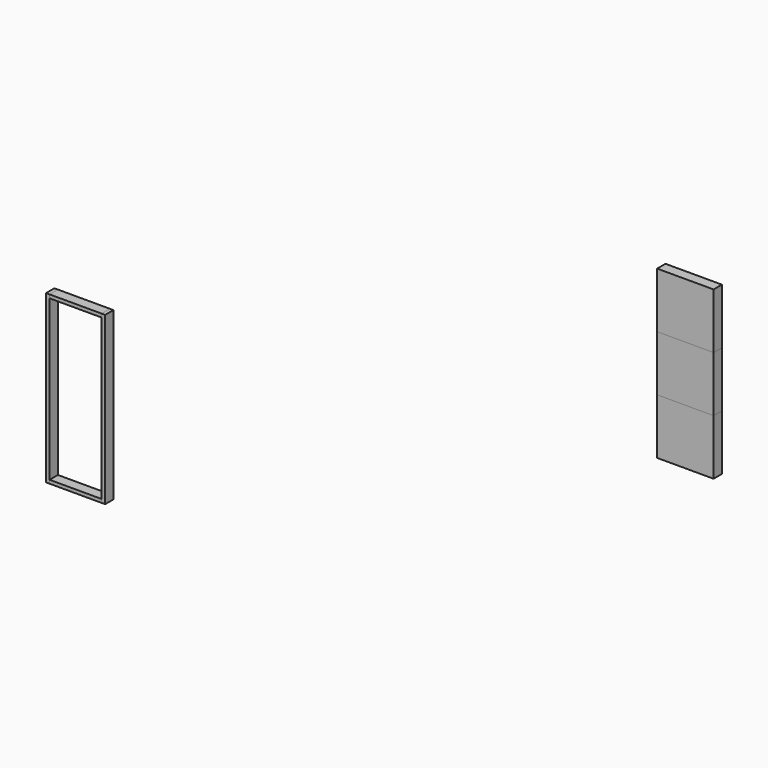
from build123d import *

# Parameters (mm, degrees)
F0_W      = 25.4
F0_H      = 1219.2
F1_DEPTH  = 38.1
F3_W      = 381
F3_H      = 25.4
F4_DEPTH  = 38.1
F15_W     = 412.75
F15_H     = 406.4
F16_DEPTH = 38.1


with BuildPart() as f1:
    # F0 (on Front) → F1 (new body, symmetric)
    with BuildSketch(Plane.XZ):
        with Locations((-443.78123, 60.547092)):
            Rectangle(F0_W, F0_H)
    extrude(amount=F1_DEPTH, both=True)


with BuildPart() as f2_1:
    # F2: copy of F1
    add(f1.part.moved(Location((652.78, 0, 0))))


with BuildPart() as f4:
    # F3 (on Front) → F4 (new body, symmetric)
    with BuildSketch(Plane.XZ):
        with Locations((-190.5, 816.255071)):
            Rectangle(F3_W, F3_H)
    extrude(amount=F4_DEPTH, both=True)


with BuildPart() as f5_1:
    # F5: copy of F4
    add(f4.part.moved(Location((0, 0, -83.82))))


with BuildPart() as f5_1_1:
    # F6: moved
    add(f5_1.part.moved(Location((0, 0, -1275.08))))


with BuildPart() as f5_1_2:
    # F7: moved
    add(f5_1_1.part.moved(Location((-50.0888, 0, 0))))


with BuildPart() as f5_1_3:
    # F8: moved
    add(f5_1_2.part.moved(Location((0, 0, 6.2992))))


with BuildPart() as f4_1:
    # F9: moved
    add(f4.part.moved(Location((-40.64, 0, -156.718))))


with BuildPart() as f4_2:
    # F10: moved
    add(f4_1.part.moved(Location((-9.4488, 0, -2.0828))))


with BuildPart() as f2_1_1:
    # F11: moved
    add(f2_1.part.moved(Location((-226.06, 0, 0))))


with BuildPart() as f2_1_2:
    # F12: moved
    add(f2_1_1.part.moved(Location((-20.32, 0, 0))))


with BuildPart() as f2_1_3:
    # F13: moved
    add(f2_1_2.part.moved(Location((0, 0, 0.007188))))


with BuildPart() as f2_1_4:
    # F14: moved
    add(f2_1_3.part.moved(Location((-0.007569, 0, 0))))


with BuildPart() as f16:
    # F15 (on Front) → F16 (new body, symmetric)
    with BuildSketch(Plane.XZ):
        with Locations((4219.673038, 2078.2367)):
            Rectangle(F15_W, F15_H)
    extrude(amount=F16_DEPTH, both=True)


with BuildPart() as f17_1:
    # F17: copy of F16
    add(f16.part.moved(Location((0, 0, -459.74))))


with BuildPart() as f18_1:
    # F18: copy of F17_1
    add(f17_1.part.moved(Location((0, 0, -492.76))))


with BuildPart() as f17_1_1:
    # F19: moved
    add(f17_1.part.moved(Location((0, 0, 53.34))))


with BuildPart() as f18_1_1:
    # F20: moved
    add(f18_1.part.moved(Location((0, 0, 139.7))))


solid = Compound([f1.part, f5_1_3.part, f4_2.part, f2_1_4.part, f16.part, f17_1_1.part, f18_1_1.part])
